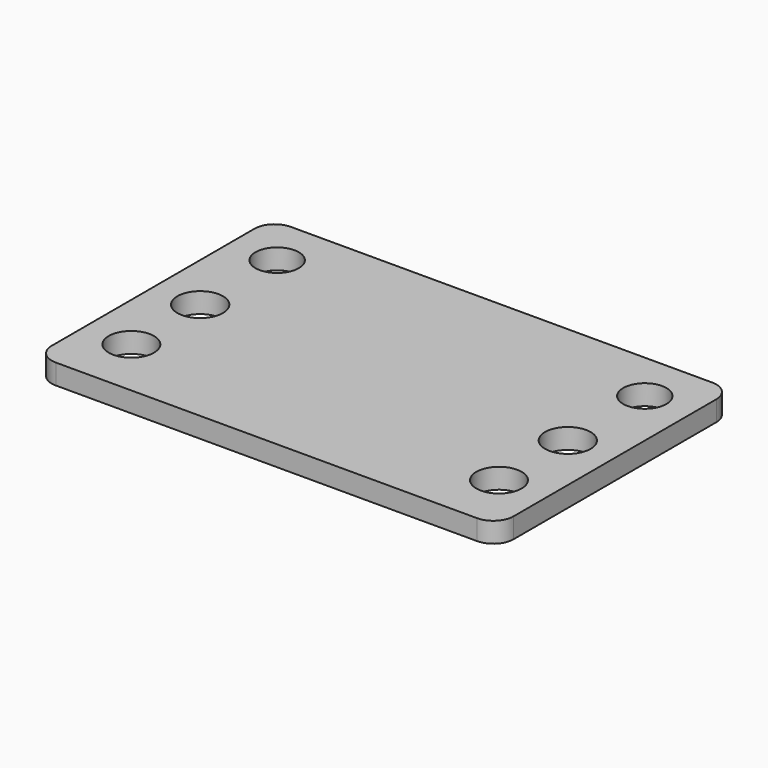
from build123d import *

# Parameters (mm, degrees)
F0_R     = 5.602125
F0_R_2   = 5.64379
F0_R_3   = 5.361194
F1_DEPTH = 5
F2_R     = 5
F3_R     = 5
F4_R     = 5
F5_R     = 5


with BuildPart() as f1:
    # F0 (on Top) → F1 (new body)
    with BuildSketch(Plane.XY):
        Polygon((57.153843, 0), (0, 0), (0, -72.72923), (114.307687, -72.72923), (114.307687, 0), align=None)
        with Locations((11.653123, -57.657372)):
            Circle(F0_R, mode=Mode.SUBTRACT)
        with Locations((102.654563, -57.657372)):
            Circle(F0_R, mode=Mode.SUBTRACT)
        with Locations((11.653123, -36.364615)):
            Circle(F0_R_2, mode=Mode.SUBTRACT)
        with Locations((11.653123, -12.544865)):
            Circle(F0_R_3, mode=Mode.SUBTRACT)
        with Locations((102.654563, -36.364615)):
            Circle(F0_R_2, mode=Mode.SUBTRACT)
        with Locations((102.654563, -12.544865)):
            Circle(F0_R_3, mode=Mode.SUBTRACT)
    extrude(amount=F1_DEPTH)

    # F2
    f2_edges = [f1.edges().sort_by_distance(p)[0] for p in [
        (114.307687, 0, 2.5),
    ]]
    fillet(f2_edges, radius=F2_R)

    # F3
    f3_edges = [f1.edges().sort_by_distance(p)[0] for p in [
        (0, 0, 2.5),
    ]]
    fillet(f3_edges, radius=F3_R)

    # F4
    f4_edges = [f1.edges().sort_by_distance(p)[0] for p in [
        (114.307687, -72.72923, 2.5),
    ]]
    fillet(f4_edges, radius=F4_R)

    # F5
    f5_edges = [f1.edges().sort_by_distance(p)[0] for p in [
        (0, -72.72923, 2.5),
    ]]
    fillet(f5_edges, radius=F5_R)


solid = f1.part
